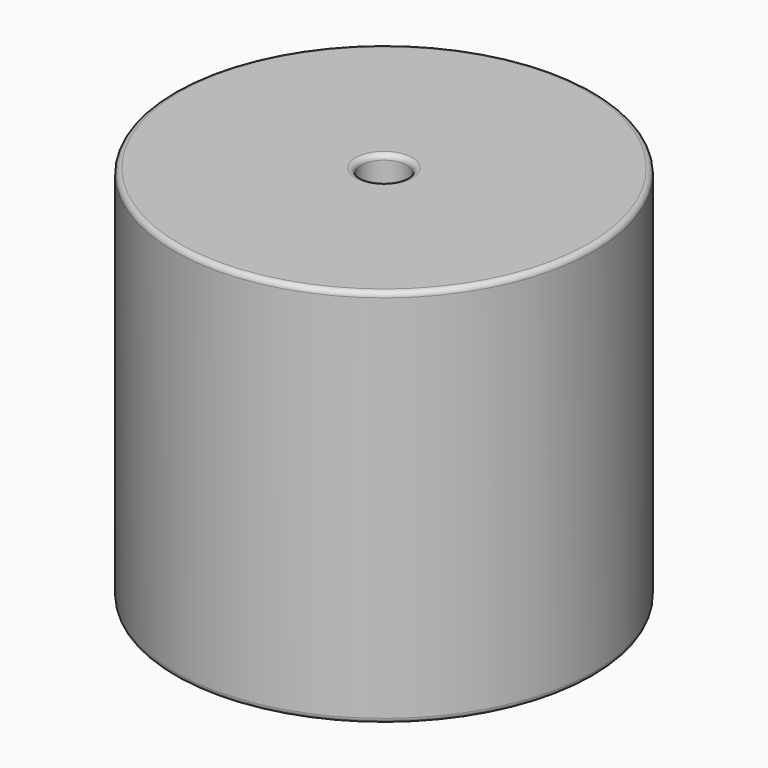
from build123d import *

# Parameters (mm, degrees)
SKETCH001_R       = 1.05
PAD001_DEPTH      = 18.415
PAD001_DEPTH_BACK = 3.5
SKETCH_R          = 20.32
SKETCH_R_2        = 2.225
PAD_DEPTH         = 36.83
FILLET_R          = 0.5


with BuildPart() as pad001:
    # Sketch001 → Pad001 (new body, two sides)
    with BuildSketch(Plane.XY.offset(0.5)) as pad001_sk:
        Circle(SKETCH001_R)
        with Locations((28.7, 0)):
            Circle(SKETCH001_R)
    extrude(amount=PAD001_DEPTH)
    extrude(pad001_sk.sketch, amount=-PAD001_DEPTH_BACK)


with BuildPart() as fillet_body:
    # Sketch → Pad (new body)
    with BuildSketch(Plane.XY.offset(0.1)):
        with Locations((14.35, 0)):
            Circle(SKETCH_R)
        with Locations((14.35, 0)):
            Circle(SKETCH_R_2, mode=Mode.SUBTRACT)
    extrude(amount=PAD_DEPTH)

    # Fillet
    fillet_edges = [fillet_body.edges().sort_by_distance(p)[0] for p in [
        (12.125, 0, 36.93),
        (-5.97, 0, 36.93),
        (-5.97, 0, 0.1),
    ]]
    fillet(fillet_edges, radius=FILLET_R)


solid = Compound([pad001.part, fillet_body.part])
